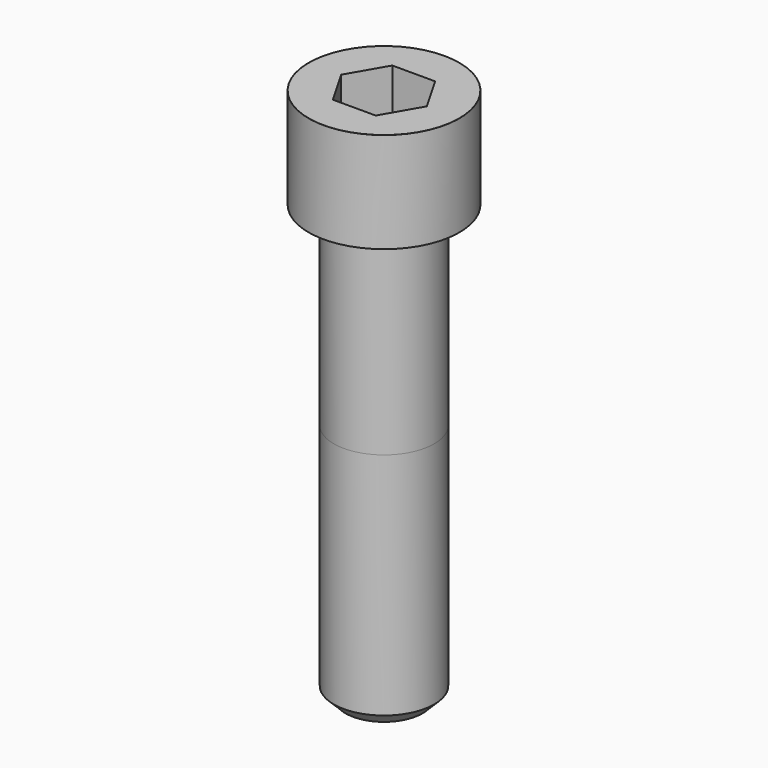
from build123d import *

# Parameters (mm, degrees)
POCKET_DEPTH = 22.15


with BuildPart() as part:
    # Sketch → Revolve (revolve)
    with BuildSketch(Plane.YZ):
        with BuildLine():
            Line((14.999, 0), (22.5, 0))
            Line((22.5, 0), (22.5, 29.97229))
            ThreePointArc((22.5, 29.97229), (22.491884, 29.991884), (22.47229, 30))
            Line((22.47229, 30), (0, 30))
            Line((0, -130), (0, 30))
            Line((11.5, -130), (0, -130))
            Line((15, -126.5), (11.5, -130))
            Line((15, -58), (15, -126.5))
            Line((14.999, 0), (15, -58))
        make_face()
    revolve(axis=Axis((0, 0, 0), (0, 0, 1)))

    # Sketch001 → Pocket (cut)
    with BuildSketch(Plane.XY.offset(30)):
        Polygon((12.788308, 0), (6.394154, 11.075), (-6.394154, 11.075), (-12.788308, 0), (-6.394154, -11.075), (6.394154, -11.075), align=None)
    extrude(amount=-POCKET_DEPTH, mode=Mode.SUBTRACT)


solid = part.part
